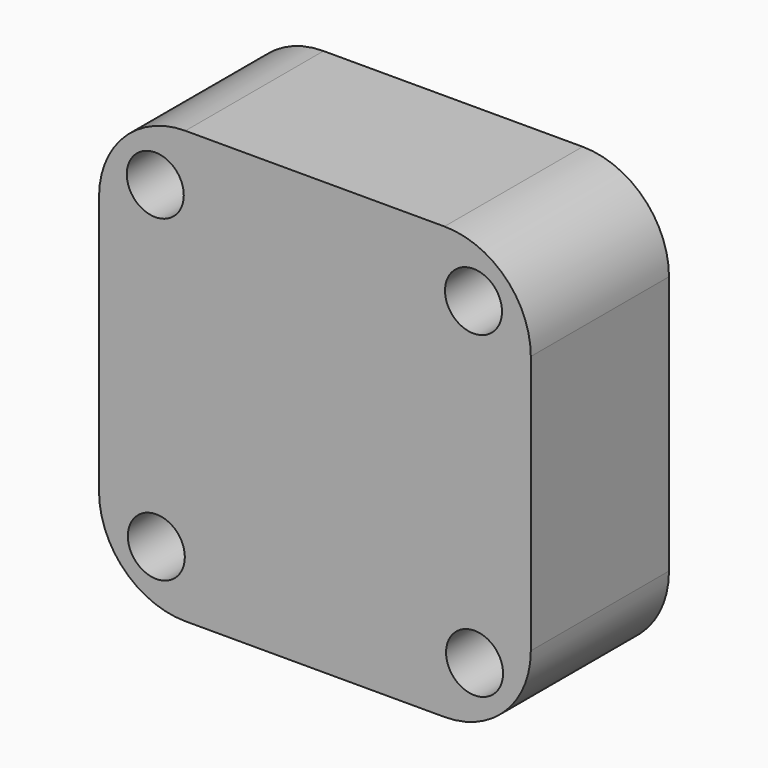
from build123d import *

# Parameters (mm, degrees)
F0_W     = 25
F0_H     = 25
F1_DEPTH = 10
F2_R     = 5
F3_R     = 10.3297635793
F4_DEPTH = 9
F5_R     = 6.488280321
F6_DEPTH = 9
F8_D     = 3.3


with BuildPart() as f1:
    # F0 (on Front) → F1 (new body)
    with BuildSketch(Plane.XZ):
        Rectangle(F0_W, F0_H)
    extrude(amount=F1_DEPTH)

    # F2
    f2_edges = [f1.edges().sort_by_distance(p)[0] for p in [
        (12.5, -5, 12.5),
        (12.5, -5, -12.5),
        (-12.5, -5, 12.5),
        (-12.5, -5, -12.5),
    ]]
    fillet(f2_edges, radius=F2_R)

    # F3 (on face) → F4 (cut)
    with BuildSketch(Plane(origin=(0, 0, 0), x_dir=(-1, 0, 0), z_dir=(0, 1, 0))):
        Circle(F3_R)
    extrude(amount=-F4_DEPTH, mode=Mode.SUBTRACT)

    # F5 (on face) → F6 (join)
    with BuildSketch(Plane(origin=(0, -9, 0), x_dir=(-1, 0, 0), z_dir=(0, 1, 0))):
        Circle(F5_R)
    extrude(amount=F6_DEPTH)

    # F8 (through all)
    with Locations(Plane(origin=(0, 0, 0), x_dir=(-1, 0, 0), z_dir=(0, 1, 0))):
        with Locations((9.2421416193, 9.181400761), (9.181400761, -9.2421416193), (-9.2421416193, -9.181400761), (-9.181400761, 9.2421416193)):
            Hole(F8_D / 2)


solid = f1.part
